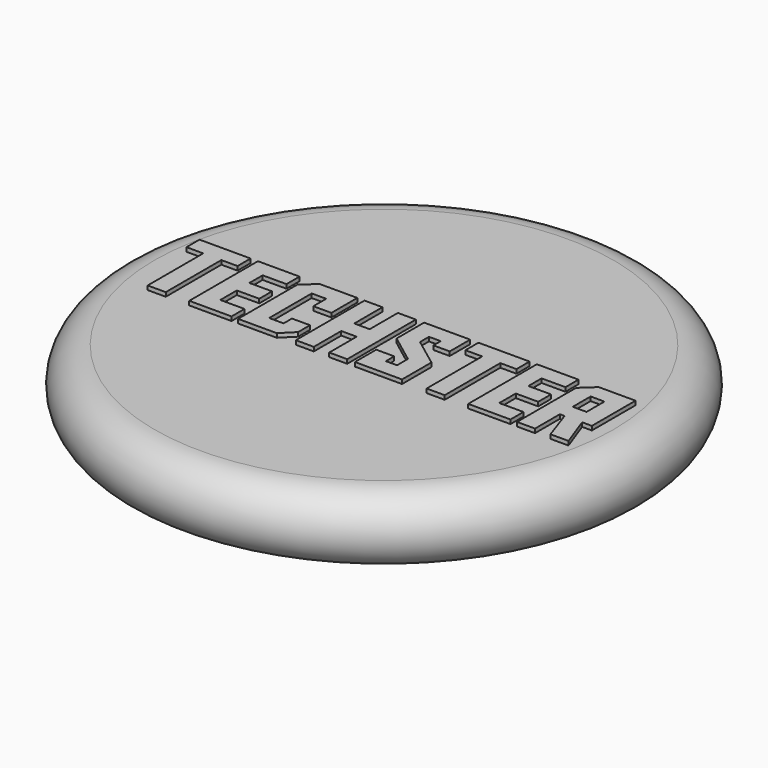
from build123d import *

# Parameters (mm, degrees)
F0_W     = 10
F0_H     = 3
F3_W     = 0.602559
F3_H     = 0.974955
F5_DEPTH = 0.1778
F6_DEPTH = 0.3


with BuildPart() as f1:
    # F0 (on Front) → F1 (revolve)
    with BuildSketch(Plane.XZ):
        with Locations((-5, 1.5)):
            Rectangle(F0_W, F0_H)
        with BuildLine():
            ThreePointArc((-10, 3), (-11.5, 1.5), (-10, 0))
            Line((-10, 0), (-10, 3))
        make_face()
    revolve(axis=Axis((0, 0, 1.5), (0, 0, 1)))

    # F3 (on offset) → F5 (join)
    with BuildSketch(Plane.XY.offset(3)):
        Polygon((-8.015585, 1.158555), (-7.309582, 1.158555), (-7.309582, 1.86973), (-9.536205, 1.86973), (-9.536205, 1.158555), (-8.804342, 1.158555), (-8.804342, -1.869755), (-8.015585, -1.869755), align=None)
        Polygon((-5.176058, 1.86973), (-6.991493, 1.86973), (-6.991493, -1.869755), (-5.150197, -1.869755), (-5.150197, -1.161167), (-6.205322, -1.161167), (-6.205322, -0.261208), (-5.22778, -0.261208), (-5.22778, 0.437036), (-6.215666, 0.437036), (-6.215666, 1.158555), (-5.176058, 1.158555), align=None)
        Polygon((-3.445964, -0.706015), (-3.445964, -1.161167), (-4.07697, -1.161167), (-4.07697, 1.158555), (-3.445964, 1.158555), (-3.445964, 0.457725), (-2.659793, 0.457725), (-2.659793, 1.86973), (-4.304546, 1.86973), (-4.863141, 1.355098), (-4.863141, -1.869755), (-3.177011, -1.869755), (-2.659793, -1.352537), (-2.659793, -0.706015), align=None)
        Polygon((-0.890908, 0.333593), (-1.563291, 0.333593), (-1.563291, 1.86973), (-2.346876, 1.86973), (-2.346876, -1.869755), (-1.563291, -1.869755), (-1.563291, -0.374996), (-0.890908, -0.374996), (-0.890908, -1.869755), (-0.107323, -1.869755), (-0.107323, 1.86973), (-0.890908, 1.86973), align=None)
        Polygon((0.226283, -1.869755), (2.282224, -1.869755), (2.282224, -0.268966), (1.035729, 0.667198), (1.035729, 1.155969), (1.547775, 1.155969), (1.547775, 0.757712), (2.258949, 0.757712), (2.258949, 1.86973), (0.252144, 1.86973), (0.252144, 0.372384), (1.496053, -0.566366), (1.496053, -1.161167), (1.009868, -1.161167), (1.009868, -0.706015), (0.226283, -0.706015), align=None)
        Polygon((4.141622, 1.158555), (4.847625, 1.158555), (4.847625, 1.86973), (2.621002, 1.86973), (2.621002, 1.158555), (3.352865, 1.158555), (3.352865, -1.869755), (4.141622, -1.869755), align=None)
        Polygon((6.981149, 1.86973), (5.165714, 1.86973), (5.165714, -1.869755), (7.00701, -1.869755), (7.00701, -1.161167), (5.951885, -1.161167), (5.951885, -0.261208), (6.929427, -0.261208), (6.929427, 0.437036), (5.941541, 0.437036), (5.941541, 1.158555), (6.981149, 1.158555), align=None)
        Polygon((8.284538, -0.517231), (8.750034, -1.869755), (9.536205, -1.869755), (9.039676, -0.506886), (9.463795, -0.506886), (9.463795, 1.86973), (7.863005, 1.86973), (7.294066, 1.342168), (7.294066, -1.869755), (8.077651, -1.869755), (8.077651, -0.517231), align=None)
        with Locations((8.37893, 0.671077)):
            Rectangle(F3_W, F3_H, mode=Mode.SUBTRACT)
    extrude(amount=F5_DEPTH)

    # F4 (on Top) → F6 (cut)
    with BuildSketch(Plane.XY):
        Polygon((-0.850983, 9.317323), (-1.177946, 9.259394), (-1.313002, 9.228666), (-1.447176, 9.194514), (-1.580404, 9.156988), (-1.712611, 9.116125), (-1.843737, 9.071977), (-1.97371, 9.024585), (-2.102452, 8.973994), (-2.229906, 8.920247), (-2.355996, 8.863385), (-2.480659, 8.803458), (-2.603819, 8.740508), (-2.725413, 8.674577), (-2.845364, 8.60571), (-2.963611, 8.533955), (-3.080081, 8.459352), (-3.194707, 8.381942), (-3.307423, 8.301777), (-3.418152, 8.218898), (-3.52683, 8.133347), (-3.633387, 8.045169), (-3.737751, 7.954411), (-3.839858, 7.861109), (-3.939638, 7.76532), (-4.037024, 7.667075), (-4.131942, 7.566429), (-4.224322, 7.463415), (-4.314102, 7.358089), (-4.401209, 7.250487), (-4.48557, 7.140655), (-4.561672, 7.037702), (-4.706327, 6.82655), (-4.840779, 6.608848), (-4.964856, 6.3851), (-5.07838, 6.155831), (-5.181178, 5.921557), (-5.273074, 5.682793), (-5.353893, 5.440063), (-5.42346, 5.193873), (-5.481605, 4.944752), (-5.528147, 4.693211), (-5.562918, 4.439765), (-5.585741, 4.184939), (-5.596437, 3.929247), (-5.594836, 3.6732), (-5.539034, 3.175103), (-5.208373, 2.113627), (-5.042312, 1.757965), (-4.707264, 1.159151), (-4.262409, 0.512985), (-3.627846, -0.234664), (-3.483872, -0.429919), (-3.312413, -0.704917), (-3.166091, -0.994406), (-3.073953, -1.21956), (-2.997779, -1.450456), (-2.938341, -1.686048), (-2.896418, -1.925307), (-2.872801, -2.167203), (-2.868259, -2.410689), (-2.865376, -2.476126), (-2.858537, -2.540739), (-2.847867, -2.60442), (-2.833499, -2.667055), (-2.815558, -2.728532), (-2.794171, -2.788747), (-2.769473, -2.847593), (-2.741593, -2.90495), (-2.710654, -2.960721), (-2.676789, -3.014787), (-2.640129, -3.067041), (-2.600801, -3.117374), (-2.558929, -3.165683), (-2.514652, -3.211844), (-2.468089, -3.255761), (-2.368643, -3.336405), (-2.316014, -3.372916), (-2.261618, -3.406739), (-2.205584, -3.43776), (-2.148047, -3.465883), (-2.089129, -3.490987), (-2.028966, -3.512961), (-1.967685, -3.531706), (-1.905405, -3.547103), (-1.84227, -3.559046), (-1.778398, -3.567429), (-1.713924, -3.572136), (-1.648977, -3.573058), (1.564661, -3.575349), (1.715927, -3.571714), (2.084211, -3.490215), (2.351366, -3.35156), (2.550766, -3.177532), (2.61935, -3.100179), (2.772527, -2.835475), (2.874567, -2.266303), (2.877086, -2.132612), (2.902854, -1.868187), (2.970382, -1.544102), (3.12118, -1.104861), (3.458046, -0.456986), (4.022718, 0.211194), (4.310965, 0.575446), (4.77648, 1.270214), (5.125051, 1.926406), (5.37325, 2.527378), (5.408088, 2.630731), (5.468416, 2.83952), (5.516627, 3.050718), (5.553128, 3.263878), (5.578331, 3.478563), (5.592636, 3.69434), (5.596463, 3.91076), (5.590201, 4.127391), (5.574273, 4.343785), (5.533137, 4.666979), (5.472531, 4.98717), (5.393828, 5.302881), (5.298405, 5.612623), (5.241202, 5.772232), (5.178943, 5.929817), (5.111739, 6.085265), (5.039701, 6.238468), (4.962929, 6.389323), (4.881539, 6.53771), (4.795632, 6.683523), (4.705317, 6.826658), (4.610707, 6.967008), (4.511906, 7.104452), (4.409025, 7.23889), (4.30217, 7.370211), (4.191447, 7.49831), (4.076964, 7.623071), (3.958831, 7.744387), (3.837159, 7.862149), (3.712048, 7.976245), (3.583615, 8.086577), (3.451959, 8.193026), (3.317192, 8.295484), (3.179428, 8.393843), (3.038765, 8.487994), (2.895315, 8.577825), (2.749188, 8.663232), (2.600486, 8.744108), (2.449323, 8.820333), (2.295806, 8.891811), (2.140039, 8.958422), (1.982134, 9.020063), (1.878214, 9.058696), (1.668169, 9.129293), (1.455477, 9.191043), (1.132227, 9.267181), (0.804955, 9.323688), (0.47483, 9.360719), (0.143011, 9.378434), (-0.189338, 9.377003), (-0.521059, 9.356574), align=None)
        Polygon((-0.834391, 7.920572), (-0.64151, 7.944848), (-0.080835, 7.94802), (0.02047, 7.908157), (0.089589, 7.860949), (0.131682, 7.819896), (0.171381, 7.771252), (0.201738, 7.718159), (0.223073, 7.661683), (0.238857, 7.572949), (0.236117, 7.482577), (0.215931, 7.394152), (0.179358, 7.311268), (0.12747, 7.23751), (0.061332, 7.17646), (0.009856, 7.144594), (-0.047166, 7.121034), (-0.077652, 7.112702), (-0.797144, 7.028119), (-0.926457, 6.998158), (-1.053855, 6.961879), (-1.179151, 6.919486), (-1.302162, 6.871167), (-1.422705, 6.817121), (-1.540607, 6.757545), (-1.655682, 6.692623), (-1.767749, 6.622556), (-1.876623, 6.547541), (-1.98213, 6.467773), (-2.084078, 6.383436), (-2.182297, 6.294733), (-2.276598, 6.201859), (-2.366805, 6.105004), (-2.452727, 6.004364), (-2.534195, 5.900135), (-2.611018, 5.792512), (-2.68302, 5.681686), (-2.750018, 5.567852), (-2.811829, 5.451207), (-2.868275, 5.33194), (-2.919169, 5.210254), (-2.964337, 5.086332), (-3.003593, 4.960381), (-3.036751, 4.832587), (-3.063643, 4.70315), (-3.084072, 4.572256), (-3.097868, 4.44011), (-3.104846, 4.306898), (-3.217227, 3.896186), (-3.345541, 3.791437), (-3.39849, 3.765338), (-3.481683, 3.742746), (-3.566874, 3.73873), (-3.678674, 3.759766), (-3.782264, 3.807807), (-3.870921, 3.879403), (-3.923576, 3.946483), (-3.961221, 4.023429), (-3.976572, 4.079484), (-3.981011, 4.10878), (-3.984832, 4.303505), (-3.977205, 4.497024), (-3.95846, 4.688973), (-3.928927, 4.878996), (-3.888935, 5.066727), (-3.838803, 5.251801), (-3.778866, 5.433863), (-3.709448, 5.612551), (-3.630874, 5.787501), (-3.543479, 5.958352), (-3.447582, 6.124738), (-3.343517, 6.286309), (-3.23161, 6.442689), (-3.112184, 6.593528), (-2.985569, 6.73846), (-2.852095, 6.877125), (-2.712085, 7.009158), (-2.565871, 7.134202), (-2.413775, 7.251893), (-2.256128, 7.361869), (-2.093259, 7.463766), (-1.925493, 7.557227), (-1.753155, 7.641893), (-1.576577, 7.717397), (-1.396081, 7.783375), (-1.212001, 7.839475), (-1.024661, 7.885323), align=None, mode=Mode.SUBTRACT)
        Polygon((2.496587, -4.952835), (1.609653, -5.045092), (-2.441109, -5.494951), (-2.717245, -5.58231), (-2.841321, -5.717551), (-2.879712, -5.838306), (-2.884713, -5.864533), (-2.88738, -5.942288), (-2.864922, -6.041177), (-2.81703, -6.130529), (-2.728569, -6.222065), (-2.616894, -6.283119), (-2.517, -6.304192), (-2.439019, -6.30088), (2.439811, -5.758646), (2.761856, -5.638694), (2.860771, -5.486336), (2.882554, -5.410239), (2.886545, -5.332505), (2.866941, -5.230675), (2.807694, -5.114746), (2.737102, -5.038402), (2.649985, -4.983126), (2.576072, -4.959102), align=None)
        Polygon((2.571674, -6.314553), (1.607964, -6.40013), (-2.442237, -6.850345), (-2.747716, -6.958885), (-2.859, -7.122845), (-2.878657, -7.178632), (-2.888096, -7.23501), (-2.888034, -7.291147), (-2.871679, -7.373119), (-2.837938, -7.449937), (-2.770055, -7.539541), (-2.705087, -7.593541), (-2.630726, -7.633126), (-2.549381, -7.655538), (-2.492457, -7.659559), (-2.434204, -7.65389), (2.559964, -7.092684), (2.602072, -7.085943), (2.641179, -7.07503), (2.677283, -7.060246), (2.710391, -7.041903), (2.740501, -7.020295), (2.767614, -6.995736), (2.79174, -6.96852), (2.812879, -6.938961), (2.831032, -6.907357), (2.846203, -6.874013), (2.858397, -6.839237), (2.873857, -6.766591), (2.877436, -6.691854), (2.86915, -6.617462), (2.84903, -6.545845), (2.834539, -6.511837), (2.817097, -6.479435), (2.796709, -6.448949), (2.773371, -6.420672), (2.747098, -6.394913), (2.717878, -6.371977), (2.685724, -6.352171), (2.650639, -6.335795), (2.612619, -6.323158), align=None)
        Polygon((1.425414, -7.787199), (-1.529309, -8.129132), (-1.763279, -8.223943), (-1.887123, -8.396081), (-1.90526, -8.49343), (-1.891331, -8.637369), (-1.783311, -8.808266), (-1.586357, -8.916811), (-1.566088, -8.921234), (-1.408956, -8.921234), (1.535864, -8.580496), (1.614206, -8.567297), (1.709274, -8.5254), (1.790191, -8.460612), (1.865752, -8.355558), (1.901197, -8.25876), (1.910363, -8.156384), (1.897757, -8.079155), (1.879198, -8.028703), (1.767403, -7.875078), (1.502345, -7.781359), align=None)
    extrude(amount=F6_DEPTH, mode=Mode.SUBTRACT)


solid = f1.part
